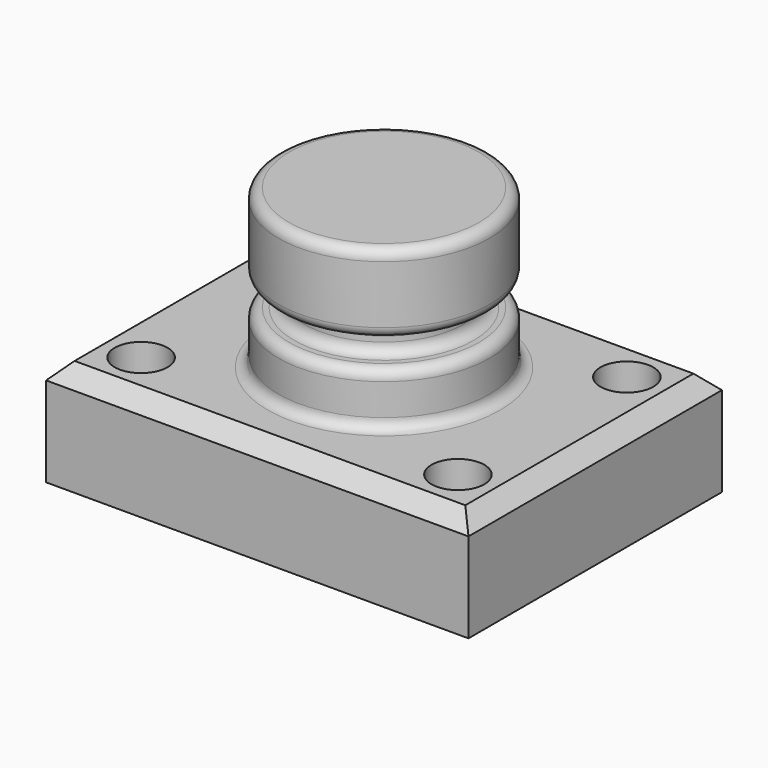
from build123d import *

# Parameters (mm, degrees)
F0_W     = 101.6
F0_H     = 76.2
F1_DEPTH = 25.4
F2_R     = 6.35
F3_DEPTH = 25.4
F4_R     = 25.4
F5_DEPTH = 12.7
F6_R     = 19.05
F7_DEPTH = 6.35
F8_R     = 25.4
F9_DEPTH = 19.05
F10_SIZE = 3.81
F11_R    = 2.54


with BuildPart() as f1:
    # F0 (on Top) → F1 (new body)
    with BuildSketch(Plane.XY):
        with Locations((50.8, 38.1)):
            Rectangle(F0_W, F0_H)
    extrude(amount=F1_DEPTH)

    # F2 (on face) → F3 (cut)
    with BuildSketch(Plane.XY.offset(25.4)):
        with Locations((12.7, 63.5)):
            Circle(F2_R)
        with Locations((88.9, 12.7)):
            Circle(F2_R)
        with Locations((88.9, 63.5)):
            Circle(F2_R)
        with Locations((12.7, 12.7)):
            Circle(F2_R)
    extrude(amount=-F3_DEPTH, mode=Mode.SUBTRACT)

    # F4 (on face) → F5 (join)
    with BuildSketch(Plane.XY.offset(25.4)):
        with Locations((50.8, 38.1)):
            Circle(F4_R)
    extrude(amount=F5_DEPTH)

    # F6 (on face) → F7 (join)
    with BuildSketch(Plane.XY.offset(38.1)):
        with Locations((50.8, 38.1)):
            Circle(F6_R)
    extrude(amount=F7_DEPTH)

    # F8 (on face) → F9 (join)
    with BuildSketch(Plane.XY.offset(44.45)):
        with Locations((50.8, 38.1)):
            Circle(F8_R)
    extrude(amount=F9_DEPTH)

    # F10
    f10_edges = [f1.edges().sort_by_distance(p)[0] for p in [
        (101.6, 38.1, 25.4),
        (50.8, 0, 25.4),
        (50.8, 76.2, 25.4),
        (0, 38.1, 25.4),
    ]]
    chamfer(f10_edges, length=F10_SIZE)

    # F11
    f11_edges = [f1.edges().sort_by_distance(p)[0] for p in [
        (25.4, 38.1, 25.4),
        (25.4, 38.1, 38.1),
        (31.75, 38.1, 38.1),
        (25.4, 38.1, 44.45),
        (31.75, 38.1, 44.45),
        (25.4, 38.1, 63.5),
    ]]
    fillet(f11_edges, radius=F11_R)


solid = f1.part
